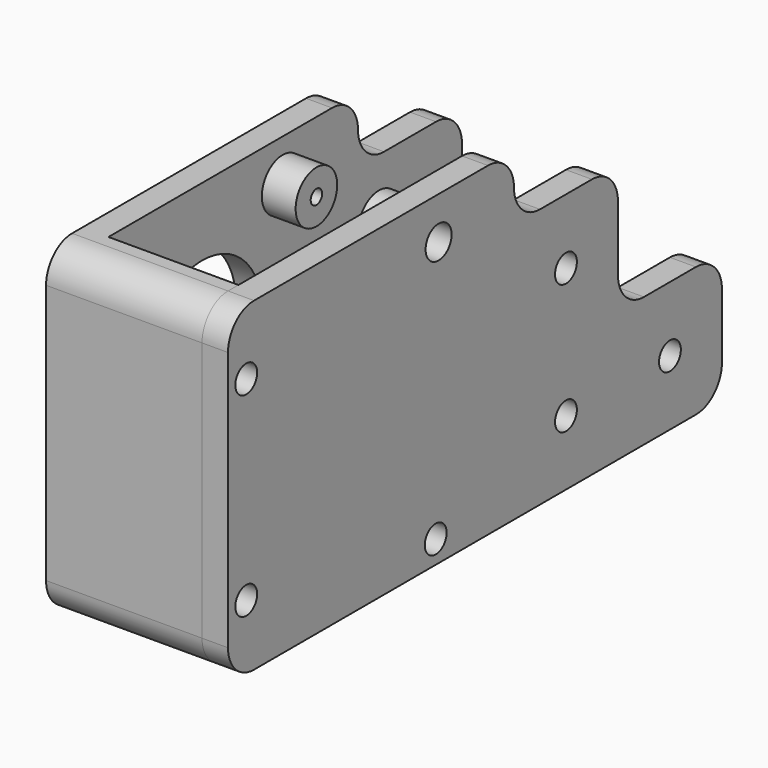
from build123d import *

# Parameters (mm, degrees)
F1_START      = -10
F0_R          = 2.1
F0_R_2        = 1.1
F0_R_3        = 11.5
F0_R_4        = 4
F0_R_5        = 2.5
F1_DEPTH      = 4
F2_START      = 10
F2_DEPTH      = 4
F3_DEPTH      = 10
F3_DEPTH_BACK = 10
F4_DEPTH      = 14.001
F5_START      = 4.8
F5_DEPTH      = 5.2
F6_START      = 4.8
F6_DEPTH      = 1.2
F7_START      = -4.8
F7_DEPTH      = 5.2


with BuildPart() as f1:
    # F0 (on Right) → F1 (new body)
    with BuildSketch(Plane.YZ.offset(F1_START)):
        with BuildLine():
            ThreePointArc((-42.5, 25), (-46.0355339059, 23.5355339059), (-47.5, 20))
            Line((-47.5, 20), (-47.5, -20))
            ThreePointArc((-47.5, -20), (-46.0355339059, -23.5355339059), (-42.5, -25))
            Line((-42.5, -25), (2.4425727315, -25))
            Line((2.4425727315, -25), (2.4425727315, -18))
            Line((2.4425727315, -18), (-40.5, -18))
            Line((-40.5, -18), (-40.5, 25))
            Line((-40.5, 25), (-42.5, 25))
        make_face()
        with Locations((-44, -15)):
            Circle(F0_R, mode=Mode.SUBTRACT)
        with Locations((-7.5574272685, -21.5)):
            Circle(F0_R, mode=Mode.SUBTRACT)
        with Locations((-44, 15)):
            Circle(F0_R, mode=Mode.SUBTRACT)
        with BuildLine():
            Line((2.5, 25), (-40.5, 25))
            Line((-40.5, 25), (-40.5, -18))
            Line((-40.5, -18), (2.4425727315, -18))
            Line((2.4425727315, -18), (2.4425727315, -25))
            Line((2.4425727315, -25), (42.5, -25))
            ThreePointArc((42.5, -25), (46.0355339059, -23.5355339059), (47.5, -20))
            Line((47.5, -20), (47.5, -10))
            ThreePointArc((47.5, -10), (46.0355339059, -6.4644660941), (42.5, -5))
            Line((42.5, -5), (32.5, -5))
            ThreePointArc((32.5, -5), (28.9644660941, -3.5355339059), (27.5, 0))
            Line((27.5, 0), (27.5, 10))
            ThreePointArc((27.5, 10), (26.0355339059, 13.5355339059), (22.5, 15))
            Line((22.5, 15), (12.5, 15))
            ThreePointArc((12.5, 15), (8.9644660941, 16.4644660941), (7.5, 20))
            ThreePointArc((7.5, 20), (6.0355339059, 23.5355339059), (2.5, 25))
        make_face()
        with Locations((-38, -12.5)):
            Circle(F0_R_2, mode=Mode.SUBTRACT)
        with Locations((-7, -12.5)):
            Circle(F0_R_2, mode=Mode.SUBTRACT)
        with Locations((17.5, -15)):
            Circle(F0_R, mode=Mode.SUBTRACT)
        with Locations((37.5, -15)):
            Circle(F0_R, mode=Mode.SUBTRACT)
        with Locations((-22.5, 3)):
            Circle(F0_R_3, mode=Mode.SUBTRACT)
        with Locations((-38, 18.5)):
            Circle(F0_R_2, mode=Mode.SUBTRACT)
        with Locations((-7, 18.5)):
            Circle(F0_R_4, mode=Mode.SUBTRACT)
        with Locations((17.5, 5)):
            Circle(F0_R, mode=Mode.SUBTRACT)
        with Locations((-44, 15)):
            Circle(F0_R)
        with Locations((-44, -15)):
            Circle(F0_R)
        with Locations((-7.5574272685, -21.5)):
            Circle(F0_R)
        with Locations((-7, 18.5)):
            Circle(F0_R_4)
        with Locations((-7, 18.5)):
            Circle(F0_R_5, mode=Mode.SUBTRACT)
        with Locations((-7, 18.5)):
            Circle(F0_R_5)
        with Locations((-7, 18.5)):
            Circle(F0_R_2, mode=Mode.SUBTRACT)
    extrude(amount=-F1_DEPTH)

    # F0 (on Right) → F3 (join, two sides)
    with BuildSketch(Plane.YZ) as f3_sk:
        with BuildLine():
            ThreePointArc((-42.5, 25), (-46.0355339059, 23.5355339059), (-47.5, 20))
            Line((-47.5, 20), (-47.5, -20))
            ThreePointArc((-47.5, -20), (-46.0355339059, -23.5355339059), (-42.5, -25))
            Line((-42.5, -25), (2.4425727315, -25))
            Line((2.4425727315, -25), (2.4425727315, -18))
            Line((2.4425727315, -18), (-40.5, -18))
            Line((-40.5, -18), (-40.5, 25))
            Line((-40.5, 25), (-42.5, 25))
        make_face()
        with Locations((-44, -15)):
            Circle(F0_R, mode=Mode.SUBTRACT)
        with Locations((-7.5574272685, -21.5)):
            Circle(F0_R, mode=Mode.SUBTRACT)
        with Locations((-44, 15)):
            Circle(F0_R, mode=Mode.SUBTRACT)
        with Locations((-44, 15)):
            Circle(F0_R)
        with Locations((-44, -15)):
            Circle(F0_R)
        with Locations((-7.5574272685, -21.5)):
            Circle(F0_R)
    extrude(amount=F3_DEPTH)
    extrude(f3_sk.sketch, amount=-F3_DEPTH_BACK)

    # F0 (on Right) → F4 (cut, through all)
    with BuildSketch(Plane.YZ):
        with Locations((-44, -15)):
            Circle(F0_R)
        with Locations((-44, 15)):
            Circle(F0_R)
        with Locations((-7.5574272685, -21.5)):
            Circle(F0_R)
    extrude(amount=F4_DEPTH, mode=Mode.SUBTRACT)

    # F0 (on Right) → F7 (join)
    with BuildSketch(Plane.YZ.offset(F7_START)):
        with Locations((-7, 18.5)):
            Circle(F0_R_4)
        with Locations((-7, 18.5)):
            Circle(F0_R_5, mode=Mode.SUBTRACT)
        with Locations((-7, 18.5)):
            Circle(F0_R_5)
        with Locations((-7, 18.5)):
            Circle(F0_R_2, mode=Mode.SUBTRACT)
    extrude(amount=-F7_DEPTH)


with BuildPart() as f2:
    # F0 (on Right) → F2 (new body)
    with BuildSketch(Plane.YZ.offset(F2_START)):
        with BuildLine():
            Line((2.5, 25), (-40.5, 25))
            Line((-40.5, 25), (-40.5, -18))
            Line((-40.5, -18), (2.4425727315, -18))
            Line((2.4425727315, -18), (2.4425727315, -25))
            Line((2.4425727315, -25), (42.5, -25))
            ThreePointArc((42.5, -25), (46.0355339059, -23.5355339059), (47.5, -20))
            Line((47.5, -20), (47.5, -10))
            ThreePointArc((47.5, -10), (46.0355339059, -6.4644660941), (42.5, -5))
            Line((42.5, -5), (32.5, -5))
            ThreePointArc((32.5, -5), (28.9644660941, -3.5355339059), (27.5, 0))
            Line((27.5, 0), (27.5, 10))
            ThreePointArc((27.5, 10), (26.0355339059, 13.5355339059), (22.5, 15))
            Line((22.5, 15), (12.5, 15))
            ThreePointArc((12.5, 15), (8.9644660941, 16.4644660941), (7.5, 20))
            ThreePointArc((7.5, 20), (6.0355339059, 23.5355339059), (2.5, 25))
        make_face()
        with Locations((-38, -12.5)):
            Circle(F0_R_2, mode=Mode.SUBTRACT)
        with Locations((-7, -12.5)):
            Circle(F0_R_2, mode=Mode.SUBTRACT)
        with Locations((17.5, -15)):
            Circle(F0_R, mode=Mode.SUBTRACT)
        with Locations((37.5, -15)):
            Circle(F0_R, mode=Mode.SUBTRACT)
        with Locations((-22.5, 3)):
            Circle(F0_R_3, mode=Mode.SUBTRACT)
        with Locations((-38, 18.5)):
            Circle(F0_R_2, mode=Mode.SUBTRACT)
        with Locations((-7, 18.5)):
            Circle(F0_R_4, mode=Mode.SUBTRACT)
        with Locations((17.5, 5)):
            Circle(F0_R, mode=Mode.SUBTRACT)
        with BuildLine():
            ThreePointArc((-42.5, 25), (-46.0355339059, 23.5355339059), (-47.5, 20))
            Line((-47.5, 20), (-47.5, -20))
            ThreePointArc((-47.5, -20), (-46.0355339059, -23.5355339059), (-42.5, -25))
            Line((-42.5, -25), (2.4425727315, -25))
            Line((2.4425727315, -25), (2.4425727315, -18))
            Line((2.4425727315, -18), (-40.5, -18))
            Line((-40.5, -18), (-40.5, 25))
            Line((-40.5, 25), (-42.5, 25))
        make_face()
        with Locations((-44, -15)):
            Circle(F0_R, mode=Mode.SUBTRACT)
        with Locations((-7.5574272685, -21.5)):
            Circle(F0_R, mode=Mode.SUBTRACT)
        with Locations((-44, 15)):
            Circle(F0_R, mode=Mode.SUBTRACT)
        with Locations((-22.5, 3)):
            Circle(F0_R_3)
        with Locations((-7, 18.5)):
            Circle(F0_R_4)
        with Locations((-7, 18.5)):
            Circle(F0_R_5, mode=Mode.SUBTRACT)
        with Locations((-38, 18.5)):
            Circle(F0_R_2)
        with Locations((-38, -12.5)):
            Circle(F0_R_2)
        with Locations((-7, -12.5)):
            Circle(F0_R_2)
    extrude(amount=F2_DEPTH)

    # F0 (on Right) → F5 (join)
    with BuildSketch(Plane.YZ.offset(F5_START)):
        with Locations((-7, 18.5)):
            Circle(F0_R_4)
        with Locations((-7, 18.5)):
            Circle(F0_R_5, mode=Mode.SUBTRACT)
    extrude(amount=F5_DEPTH)

    # F0 (on Right) → F6 (join)
    with BuildSketch(Plane.YZ.offset(F6_START)):
        with Locations((-7, 18.5)):
            Circle(F0_R_5)
        with Locations((-7, 18.5)):
            Circle(F0_R_2, mode=Mode.SUBTRACT)
    extrude(amount=F6_DEPTH)


solid = Compound([f1.part, f2.part])
